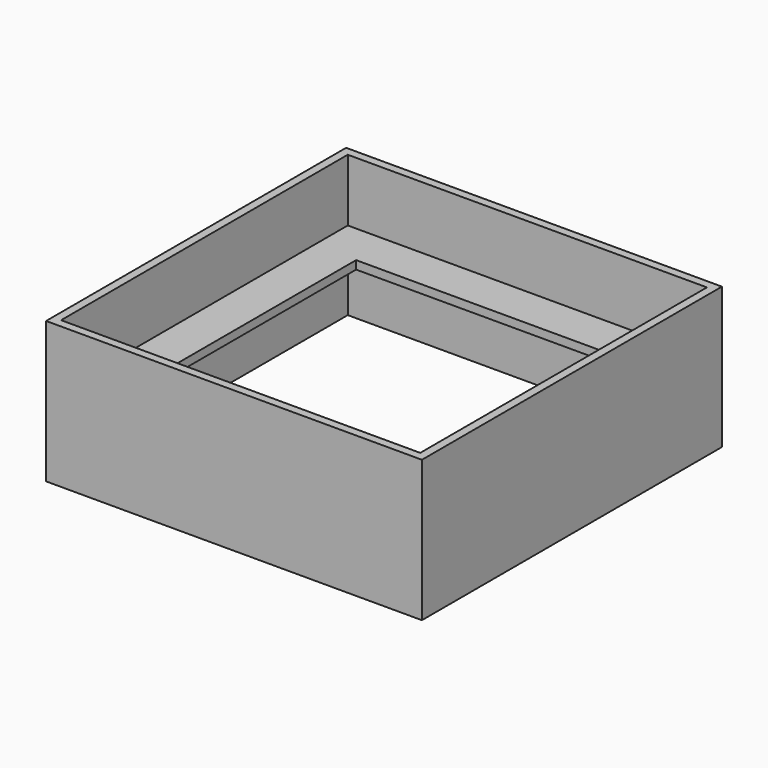
from build123d import *

# Parameters (mm, degrees)
F0_W          = 129.1844
F0_H          = 128.892914
F0_W_2        = 99.1844
F0_H_2        = 98.892914
F1_DEPTH      = 3
F2_W          = 135.1844
F2_H          = 134.892914
F2_W_2        = 129.1844
F2_H_2        = 128.892914
F3_DEPTH      = 25.4
F3_DEPTH_BACK = 25.4


with BuildPart() as f1:
    # F0 (on Top) → F1 (new body)
    with BuildSketch(Plane.XY):
        Rectangle(F0_W, F0_H)
        Rectangle(F0_W_2, F0_H_2, mode=Mode.SUBTRACT)
    extrude(amount=F1_DEPTH)

    # F2 (on Top) → F3 (join, two sides)
    with BuildSketch(Plane.XY) as f3_sk:
        Rectangle(F2_W, F2_H)
        Rectangle(F2_W_2, F2_H_2, mode=Mode.SUBTRACT)
    extrude(amount=F3_DEPTH)
    extrude(f3_sk.sketch, amount=-F3_DEPTH_BACK)


solid = f1.part
